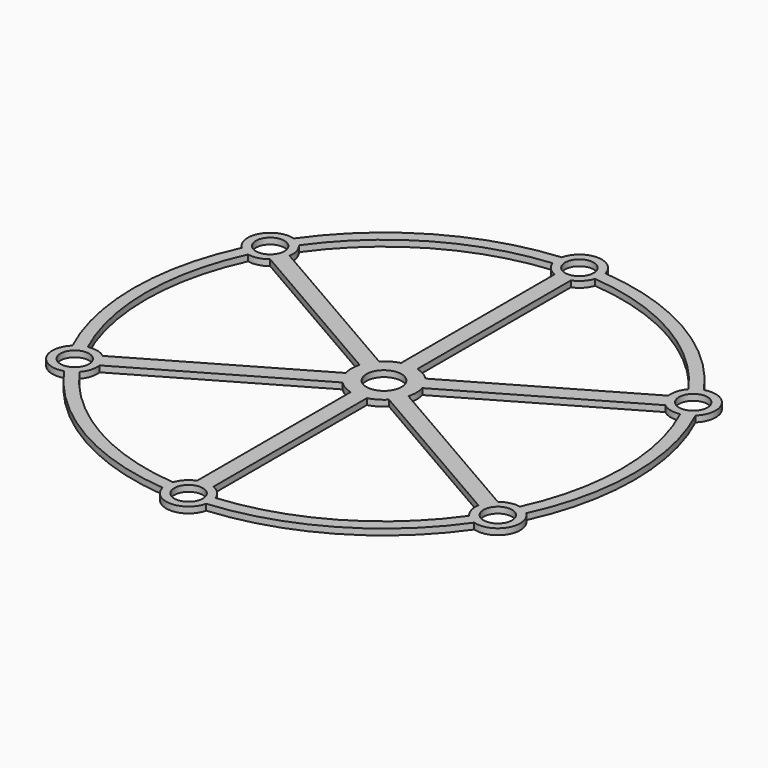
from build123d import *

# Parameters (mm, degrees)
SKETCH_R           = 4.3
SKETCH_R_2         = 3.5
PAD_DEPTH          = 1.5
POLARPATTERN_COUNT = 6


with BuildPart() as part:
    # Sketch → Pad (new body)
    with BuildSketch(Plane.XY):
        with BuildLine():
            ThreePointArc((6.6323005804, 4.4735432278), (4.6158793486, 6.534038402), (2, 7.7459666924))
            Line((2, 7.7459666924), (2, 54.876524617))
            ThreePointArc((2, 54.876524617), (3.9880427931, 56.2124526827), (5.2197393691, 58.2667022995))
            ThreePointArc((48.4987282929, 32.7128052896), (29.7433833833, 50.3744520651), (5.2197393691, 58.2667022995))
            Line((48.4987282929, 32.7128052896), (50.9858410106, 34.390384))
            ThreePointArc((50.9858410106, 34.390384), (31.210195847, 52.9922463235), (5.3521454254, 61.2667041268))
            ThreePointArc((5.3521454254, 61.2667041268), (-3.6080213802, 64.1511663084), (-2, 54.876524617))
            Line((-2, 7.7459666924), (-2, 54.876524617))
            ThreePointArc((-2, 7.7459666924), (-2.8357963608, -7.4805253158), (6.6323005804, 4.4735432278))
        make_face()
        Circle(SKETCH_R, mode=Mode.SUBTRACT)
        with Locations((0, 60)):
            Circle(SKETCH_R_2, mode=Mode.SUBTRACT)
    pad = extrude(amount=PAD_DEPTH)

    # PolarPattern: Pad ×6 about axis
    polarpattern_axis = Axis((0, 0, 0), (0, 0, 1))
    for i in range(1, POLARPATTERN_COUNT):
        add(pad.rotate(polarpattern_axis, i * 360 / POLARPATTERN_COUNT))


solid = part.part
